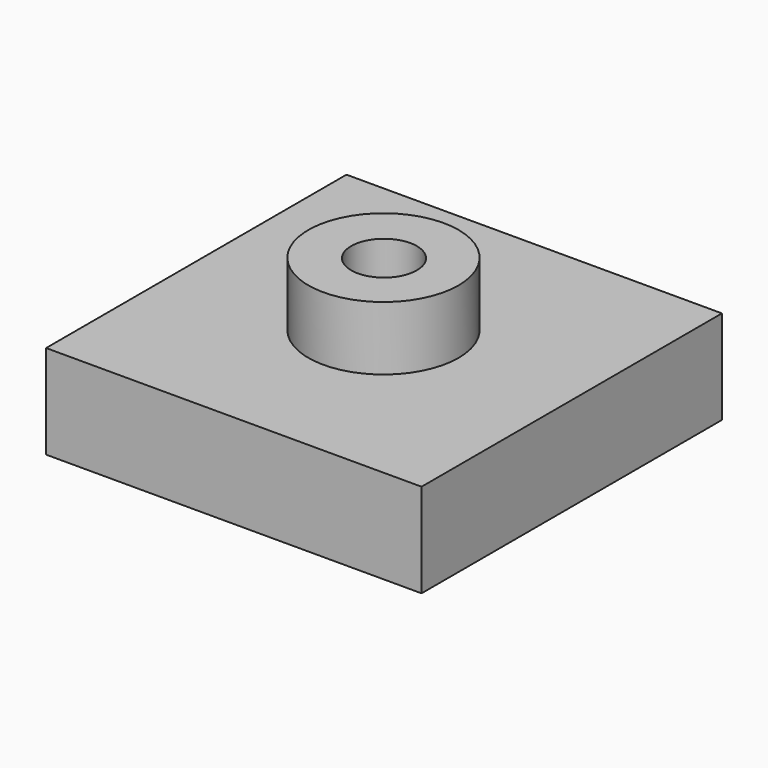
from build123d import *

# Parameters (mm, degrees)
SKETCH_W     = 20
SKETCH_H     = 20
PAD_DEPTH    = 5
SKETCH001_R  = 4
PAD001_DEPTH = 3.4
SKETCH002_R  = 1.75
POCKET_DEPTH = 8.401


with BuildPart() as part:
    # Sketch → Pad (new body)
    with BuildSketch(Plane.XY):
        Rectangle(SKETCH_W, SKETCH_H)
    extrude(amount=PAD_DEPTH)

    # Sketch001 → Pad001 (new body)
    with BuildSketch(Plane.XY.offset(5)):
        with Locations((-0.047954, 0.023977)):
            Circle(SKETCH001_R)
    extrude(amount=PAD001_DEPTH)

    # Sketch002 → Pocket (cut, through all)
    with BuildSketch(Plane.XY.offset(8.4)):
        Circle(SKETCH002_R)
    extrude(amount=-POCKET_DEPTH, mode=Mode.SUBTRACT)


solid = part.part
